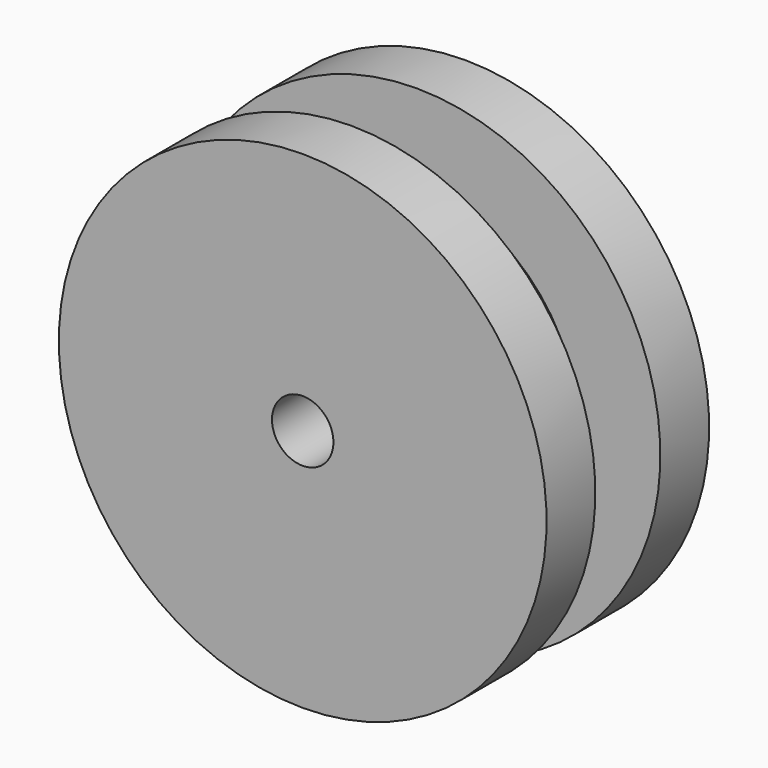
from build123d import *

# Parameters (mm, degrees)
F3_D = 2.4


with BuildPart() as f1:
    # F0 (on Right) → F1 (revolve)
    with BuildSketch(Plane.YZ):
        Polygon((-3.96875, 0), (0, 0), (3.96875, 0), (3.96875, 9.525), (1.5875, 9.525), (1.5875, 6.2738), (-1.5875, 6.2738), (-1.5875, 9.525), (-3.96875, 9.525), align=None)
    revolve(axis=Axis((0, 1.984375, 0), (0, -1, 0)))

    # F3 (through all)
    with Locations(Plane.XZ.offset(3.96875)):
        with Locations((0, 0)):
            Hole(F3_D / 2)


solid = f1.part
